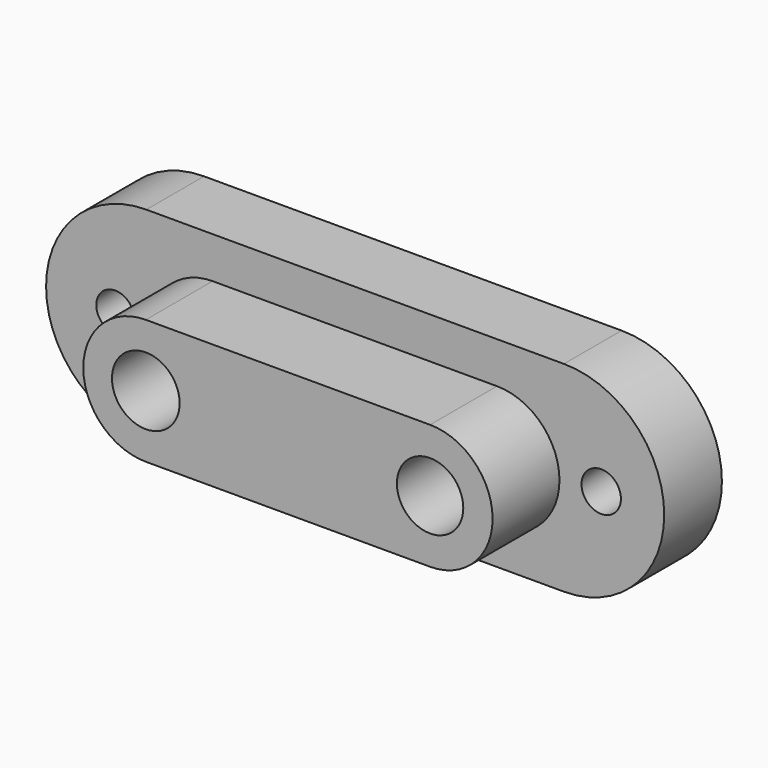
from build123d import *

# Parameters (mm, degrees)
F0_R     = 1.157623
F0_R_2   = 1.202078
F1_DEPTH = 4.4
F0_R_3   = 2.064031
F0_R_4   = 2.025122
F2_DEPTH = 5.1


with BuildPart() as f1:
    # F0 (on Front) → F1 (new body)
    with BuildSketch(Plane.XZ):
        with BuildLine():
            Line((-25.47081, 0), (0, 0))
            ThreePointArc((0, 0), (6.115872, 6.115872), (0, 12.231745))
            Line((0, 12.231745), (-25.47081, 12.231745))
            ThreePointArc((-25.47081, 12.231745), (-31.586682, 6.115872), (-25.47081, 0))
        make_face()
        with Locations((-27.367856, 6.115872)):
            Circle(F0_R, mode=Mode.SUBTRACT)
        with BuildLine():
            Line((-4.08474, 2.082464), (-21.425037, 2.082464))
            ThreePointArc((-21.425037, 2.082464), (-25.236771, 5.894198), (-21.425037, 9.705932))
            Line((-21.425037, 9.705932), (-4.08474, 9.705932))
            ThreePointArc((-4.08474, 9.705932), (-0.273006, 5.894198), (-4.08474, 2.082464))
        make_face(mode=Mode.SUBTRACT)
        with Locations((2.273161, 6.115872)):
            Circle(F0_R_2, mode=Mode.SUBTRACT)
    extrude(amount=-F1_DEPTH)


with BuildPart() as f2:
    # F0 (on Front) → F2 (new body)
    with BuildSketch(Plane.XZ):
        with BuildLine():
            ThreePointArc((-21.425037, 9.705932), (-25.236771, 5.894198), (-21.425037, 2.082464))
            Line((-21.425037, 2.082464), (-4.08474, 2.082464))
            ThreePointArc((-4.08474, 2.082464), (-0.273006, 5.894198), (-4.08474, 9.705932))
            Line((-4.08474, 9.705932), (-21.425037, 9.705932))
        make_face()
        with Locations((-21.425037, 5.894198)):
            Circle(F0_R_3, mode=Mode.SUBTRACT)
        with Locations((-4.08474, 5.894198)):
            Circle(F0_R_4, mode=Mode.SUBTRACT)
    extrude(amount=F2_DEPTH)


solid = Compound([f1.part, f2.part])
